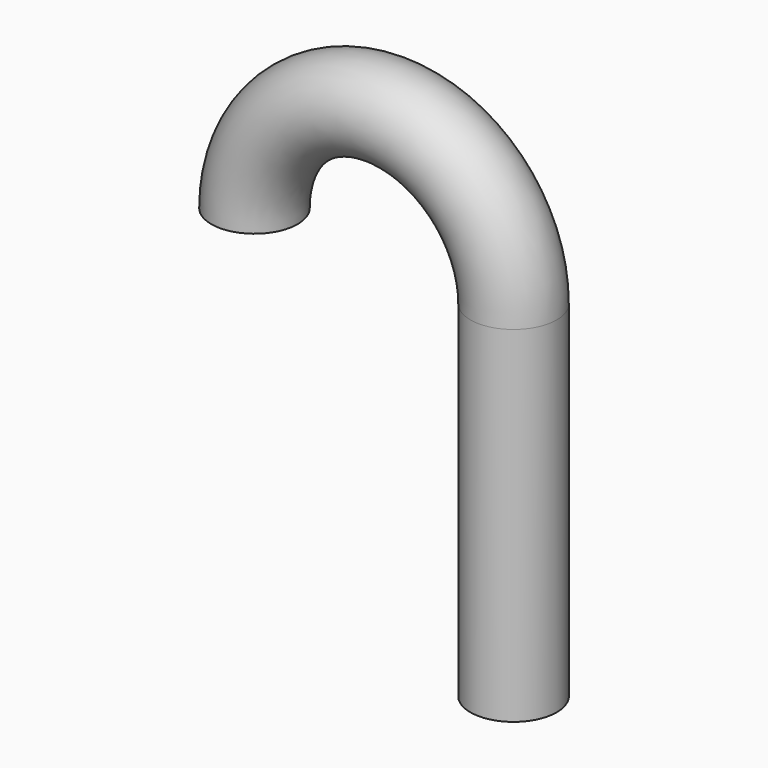
from build123d import *

# Parameters (mm, degrees)
F0_R = 12.7


with BuildPart() as f2:
    # F2: sweep along a path in F1
    with BuildLine(Plane.XZ) as f2_path:
        ThreePointArc((-76.2, 101.6), (-38.1, 139.7), (0, 101.6))
        Line((0, 101.6), (0, 0))
    # F0 (on Top) → F2 (sweep)
    with BuildSketch(Plane.XY):
        Circle(F0_R)
    sweep(path=f2_path.line)


solid = f2.part
